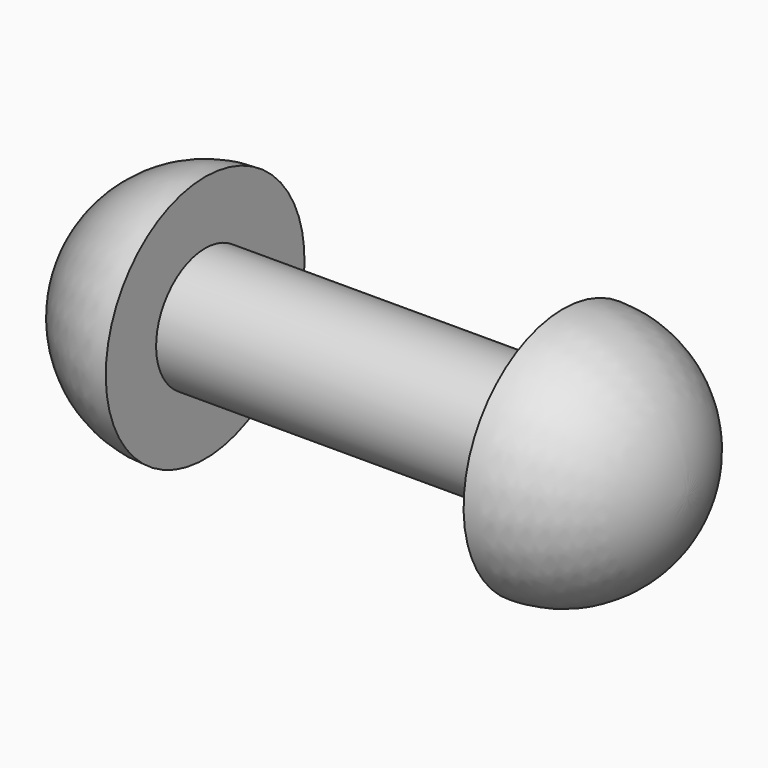
from build123d import *

# Parameters (mm, degrees)
F0_W = 15.2
F0_H = 2.60325


with BuildPart() as f1:
    # F0 (on Front) → F1 (revolve)
    with BuildSketch(Plane.XZ):
        with BuildLine():
            Line((-7.6, 0), (-7.6, 2.60325))
            Line((-7.6, 2.60325), (-7.6, 5.276499))
            ThreePointArc((-7.6, 5.276499), (-11.331048, 3.731048), (-12.876499, 0))
            Line((-12.876499, 0), (-7.6, 0))
        make_face()
        with Locations((0, 1.301625)):
            Rectangle(F0_W, F0_H)
        with BuildLine():
            Line((7.6, 5.276499), (7.6, 2.60325))
            Line((7.6, 2.60325), (7.6, 0))
            Line((7.6, 0), (12.876499, 0))
            ThreePointArc((12.876499, 0), (11.331048, 3.731048), (7.6, 5.276499))
        make_face()
    revolve(axis=Axis((0, 0, 0), (1, 0, 0)))


solid = f1.part
